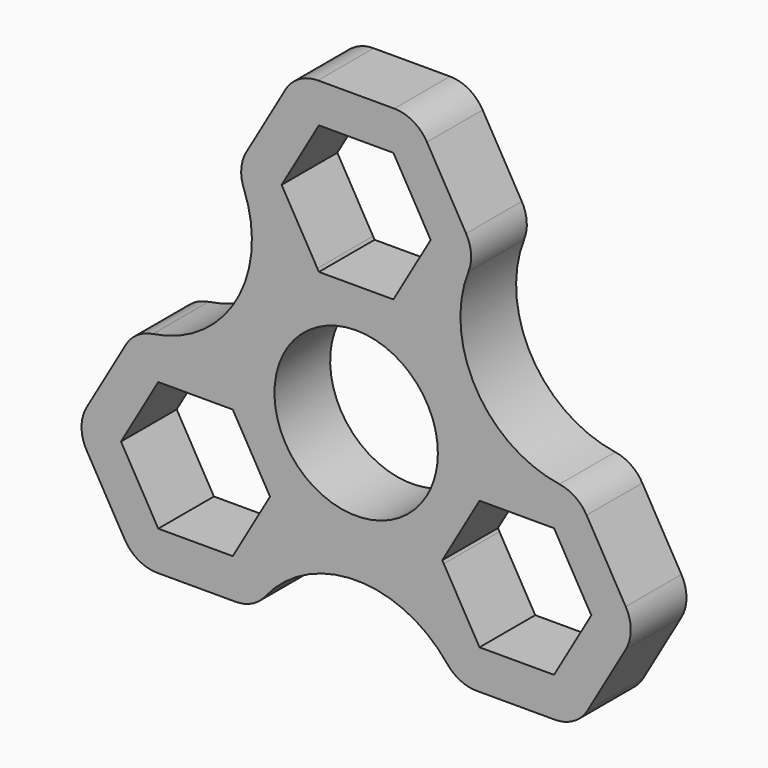
from build123d import *

# Parameters (mm, degrees)
F1_DEPTH = 9.3726
F2_R     = 5.08


with BuildPart() as f1:
    # F0 (on Front) → F1 (new body)
    with BuildSketch(Plane.XZ):
        with BuildLine():
            Line((16.1311665212, 24.9682), (10.4632611935, 15.1511))
            Line((10.4632611935, 15.1511), (18.352868092, 1.4859))
            Line((18.352868092, 1.4859), (29.6886787473, 1.4859))
            ThreePointArc((29.6886787473, 1.4859), (16.1311665212, 9.3133333333), (16.1311665212, 24.9682))
        make_face()
        Polygon((9.6053764285, 16.637), (10.4632611935, 15.1511), (16.1311665212, 24.9682), (8.0655832606, 38.9382), (-8.0655832606, 38.9382), (-16.1311665212, 24.9682), (-10.4632611935, 15.1511), (-9.6053764285, 16.637), (-5.2206320741, 16.637), (-10.0306526368, 24.9682), (-5.0153263184, 33.655), (5.0153263184, 33.655), (10.0306526368, 24.9682), (5.2206320741, 16.637), align=None)
        with BuildLine():
            Line((-18.352868092, 1.4859), (-10.4632611935, 15.1511))
            Line((-10.4632611935, 15.1511), (-16.1311665212, 24.9682))
            ThreePointArc((-16.1311665212, 24.9682), (-16.1311665212, 9.3133333333), (-29.6886787473, 1.4859))
            Line((-29.6886787473, 1.4859), (-18.352868092, 1.4859))
        make_face()
        with BuildLine():
            Line((13.5575122262, -26.4541), (7.8896068985, -16.637))
            Line((7.8896068985, -16.637), (-7.8896068985, -16.637))
            Line((-7.8896068985, -16.637), (-13.5575122262, -26.4541))
            ThreePointArc((-13.5575122262, -26.4541), (0, -18.6266666667), (13.5575122262, -26.4541))
        make_face()
        Polygon((9.6053764285, -16.637), (7.8896068985, -16.637), (13.5575122262, -26.4541), (29.6886787473, -26.4541), (37.7542620079, -12.4841), (29.6886787473, 1.4859), (18.352868092, 1.4859), (19.210752857, 0), (17.0183806798, -3.7973), (26.6384218052, -3.7973), (31.6537481236, -12.4841), (26.6384218052, -21.1709), (16.6077691684, -21.1709), (11.7977486057, -12.8397), align=None)
        Polygon((-19.210752857, 0), (-18.352868092, 1.4859), (-29.6886787473, 1.4859), (-37.7542620079, -12.4841), (-29.6886787473, -26.4541), (-13.5575122262, -26.4541), (-7.8896068985, -16.637), (-9.6053764285, -16.637), (-11.7977486057, -12.8397), (-16.6077691684, -21.1709), (-26.6384218052, -21.1709), (-31.6537481236, -12.4841), (-26.6384218052, -3.7973), (-17.0183806798, -3.7973), align=None)
        Polygon((-5.4919289656, -12.4841), (-9.5247203399, -5.4991004434), (-13.5575122262, 1.4859), (-18.352868092, 1.4859), (-19.210752857, 0), (-17.0183806798, -3.7973), (-16.6077691684, -3.7973), (-11.59244285, -12.4841), (-11.7977486057, -12.8397), (-9.6053764285, -16.637), (-7.8896068985, -16.637), align=None)
        with BuildLine():
            Line((5.4919289656, -12.4841), (9.5247202992, -5.4991005139))
            ThreePointArc((9.5247202992, -5.4991005139), (-4.07e-08, -10.9982), (-9.5247203399, -5.4991004434))
            Line((-9.5247203399, -5.4991004434), (-5.4919289656, -12.4841))
            Line((-5.4919289656, -12.4841), (-7.8896068985, -16.637))
            Line((-7.8896068985, -16.637), (7.8896068985, -16.637))
            Line((7.8896068985, -16.637), (5.4919289656, -12.4841))
        make_face()
        Polygon((13.5575122262, 1.4859), (9.5247202992, -5.4991005139), (5.4919289656, -12.4841), (7.8896068985, -16.637), (9.6053764285, -16.637), (11.7977486057, -12.8397), (11.59244285, -12.4841), (16.6077691684, -3.7973), (17.0183806798, -3.7973), (19.210752857, 0), (18.352868092, 1.4859), align=None)
        with BuildLine():
            ThreePointArc((0, 10.9982), (7.7769018008, 7.7769018008), (10.9982, 0))
            ThreePointArc((10.9982, 0), (10.6234453459, -2.8465439085), (9.5247202992, -5.4991005139))
            Line((9.5247202992, -5.4991005139), (13.5575122262, 1.4859))
            Line((13.5575122262, 1.4859), (18.352868092, 1.4859))
            Line((18.352868092, 1.4859), (10.4632611935, 15.1511))
            Line((10.4632611935, 15.1511), (8.0655832606, 10.9982))
            Line((8.0655832606, 10.9982), (0, 10.9982))
        make_face()
        with BuildLine():
            ThreePointArc((-9.5247203399, -5.4991004434), (-9.5247207239, 5.4990997783), (0, 10.9982))
            Line((0, 10.9982), (-8.0655832606, 10.9982))
            Line((-8.0655832606, 10.9982), (-10.4632611935, 15.1511))
            Line((-10.4632611935, 15.1511), (-18.352868092, 1.4859))
            Line((-18.352868092, 1.4859), (-13.5575122262, 1.4859))
            Line((-13.5575122262, 1.4859), (-9.5247203399, -5.4991004434))
        make_face()
        Polygon((-8.0655832606, 10.9982), (0, 10.9982), (8.0655832606, 10.9982), (10.4632611935, 15.1511), (9.6053764285, 16.637), (5.2206320741, 16.637), (5.0153263184, 16.2814), (-5.0153263184, 16.2814), (-5.2206320741, 16.637), (-9.6053764285, 16.637), (-10.4632611935, 15.1511), align=None)
    extrude(amount=F1_DEPTH)

    # F2
    f2_edges = [f1.edges().sort_by_distance(p)[0] for p in [
        (8.065583, -4.6863, 38.9382),
        (16.131167, -4.6863, 24.9682),
        (-8.065583, -4.6863, 38.9382),
        (-16.131167, -4.6863, 24.9682),
        (-29.688679, -4.6863, 1.4859),
        (-37.754262, -4.6863, -12.4841),
        (-29.688679, -4.6863, -26.4541),
        (-13.557512, -4.6863, -26.4541),
        (13.557512, -4.6863, -26.4541),
        (29.688679, -4.6863, -26.4541),
        (37.754262, -4.6863, -12.4841),
        (29.688679, -4.6863, 1.4859),
    ]]
    fillet(f2_edges, radius=F2_R)


solid = f1.part
